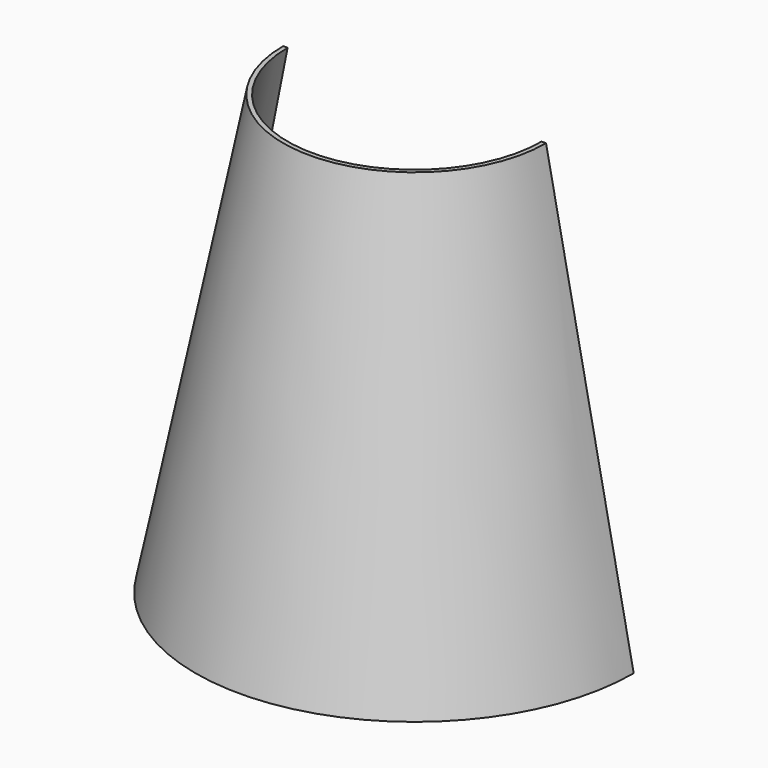
from build123d import *

# Parameters (mm, degrees)
F1_ANGLE = 180
F2_T     = -1


with BuildPart() as f1:
    # F0 (on Front) → F1 (revolve)
    with BuildSketch(Plane.XZ):
        Polygon((-50, 0), (0, 0), (0, 100), (-30, 100), align=None)
    revolve(axis=Axis((0, 0, 50), (0, 0, 1)), revolution_arc=F1_ANGLE)

    # F2
    f2_openings = [f1.faces().sort_by_distance(p)[0] for p in [
        (0, -12.732395, 100),
        (0, 0, 45.833333),
        (0, -21.220659, 0),
    ]]
    offset(amount=F2_T, openings=f2_openings)


solid = f1.part
